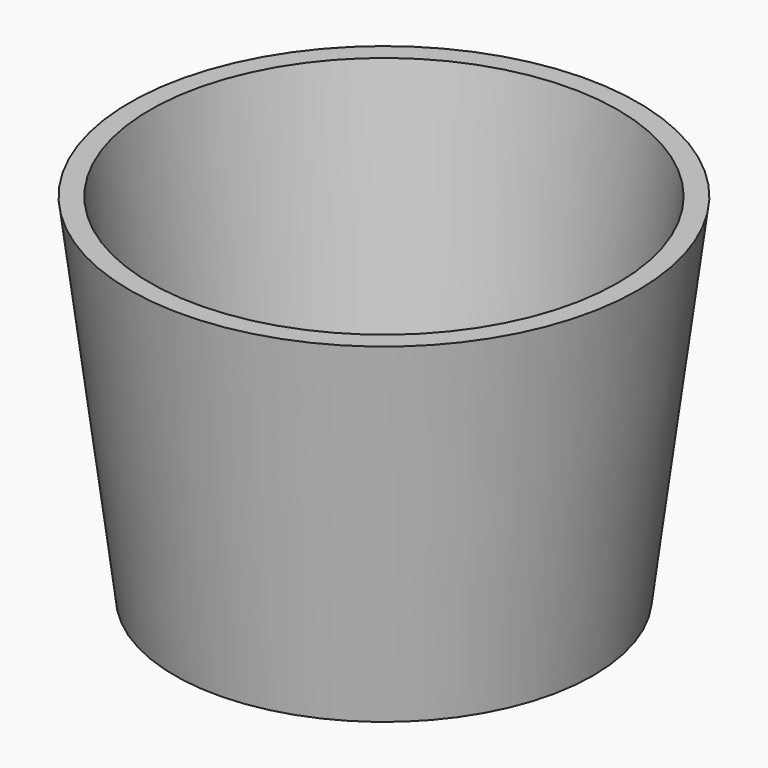
from build123d import *

# Parameters (mm, degrees)
F2_R = 266.7
F0_R = 323.85
F4_T = -25.4


with BuildPart() as f3:
    # F2 (on offset) → F3 section 0
    with BuildSketch(Plane.XY.offset(-450.85)):
        Circle(F2_R)
    # F0 (on Top) → F3 section 1
    with BuildSketch(Plane.XY):
        Circle(F0_R)
    loft()

    # F4
    f4_openings = [f3.faces().sort_by_distance(p)[0] for p in [
        (0, 0, 0),
    ]]
    offset(amount=F4_T, openings=f4_openings, kind=Kind.INTERSECTION)


solid = f3.part
